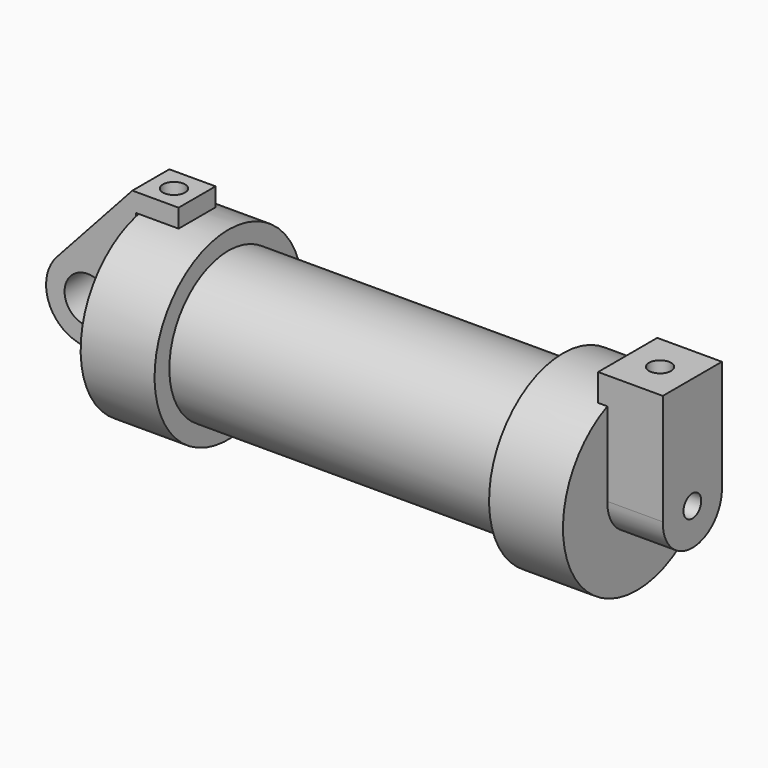
from build123d import *

# Parameters (mm, degrees)
F0_W          = 5.842
F0_H          = 12.7
F0_R          = 3.175
F2_DEPTH      = 3.175
F3_R          = 1.524
F4_DEPTH      = 7.62
F4_DEPTH_BACK = 1.27
F5_DEPTH      = 56.134
F7_D          = 3.048
F7_DEPTH      = 10.414
F7_TIP        = 0.9157115834
F9_D          = 3.048
F9_DEPTH      = 17.78
F9_TIP        = 0.9157115834
F9_2_D        = 3.048
F9_2_DEPTH    = 17.78
F9_2_TIP      = 0.9157115834


with BuildPart() as f1:
    # F0 (on Front) → F1 (revolve)
    with BuildSketch(Plane.XZ):
        Polygon((5.842, 12.7), (5.842, 0), (66.294, 0), (66.294, 12.7), (56.134, 12.7), (56.134, 10.16), (10.16, 10.16), (10.16, 12.7), align=None)
        with Locations((2.921, 6.35)):
            Rectangle(F0_W, F0_H)
    revolve(axis=Axis((33.147, 0, 0), (-1, 0, 0)))

    # F3 (on face) → F4 (join, two sides)
    with BuildSketch(Plane.YZ.offset(66.294)) as f4_sk:
        with BuildLine():
            ThreePointArc((-5.0781774391, 0.1360657812), (-0.0680389935, -5.0795443393), (5.08, 0))
            ThreePointArc((5.08, 0), (5.0795115412, 0.0704450318), (5.0780462589, 0.1408765166))
            ThreePointArc((5.0780462589, 0.1408765166), (-0.0024062618, 5.0799994301), (-5.0781774391, 0.1360657812))
        make_face()
        Circle(F3_R, mode=Mode.SUBTRACT)
        with BuildLine():
            ThreePointArc((-5.0781774391, 0.1360657812), (-0.0024062618, 5.0799994301), (5.0780462589, 0.1408765166))
            Line((5.0780462589, 0.1408765166), (5.0780462589, 11.6405947525))
            ThreePointArc((5.0780462589, 11.6405947525), (-7.15596e-05, 12.6999999998), (-5.0781774391, 11.6405375261))
            Line((-5.0781774391, 11.6405375261), (-5.0781774391, 0.1360657812))
        make_face()
        with BuildLine():
            ThreePointArc((-5.0781774391, 11.6405375261), (-7.15596e-05, 12.6999999998), (5.0780462589, 11.6405947525))
            Line((5.0780462589, 11.6405947525), (5.0780462589, 15.3808765166))
            Line((5.0780462589, 15.3808765166), (-5.0781774391, 15.3760657812))
            Line((-5.0781774391, 15.3760657812), (-5.0781774391, 11.6405375261))
        make_face()
    extrude(amount=F4_DEPTH)
    extrude(f4_sk.sketch, amount=-F4_DEPTH_BACK)

    # F5 (cut, through all): a face of the model
    f5_faces = [f1.faces().sort_by_distance(p)[0] for p in [
        (66.294, 0, 0),
    ]]
    extrude(f5_faces, amount=-F5_DEPTH, mode=Mode.SUBTRACT)

    # F7
    with Locations(Plane(origin=(0, -0.0072843748, 15.3784677295), x_dir=(1, 0, 0), z_dir=(0, -0.0004736736, 0.9999998878))):
        with Locations((69.469, 0.0072187854)):
            Hole(F7_D / 2, depth=F7_DEPTH)
            with Locations((0, 0, -(F7_DEPTH + F7_TIP / 2))):  # 118° drill point
                Cone(0, F7_D / 2, F7_TIP, mode=Mode.SUBTRACT)

    # F9
    with Locations(Plane.XY.offset(15.24)):
        with Locations((2.667, 0)):
            Hole(F9_D / 2, depth=F9_DEPTH)
            with Locations((0, 0, -(F9_DEPTH + F9_TIP / 2))):  # 118° drill point
                Cone(0, F9_D / 2, F9_TIP, mode=Mode.SUBTRACT)


with BuildPart() as f2:
    # F0 (on Front) → F2 (new body, symmetric)
    with BuildSketch(Plane.XZ):
        with BuildLine():
            Line((5.842, 0), (0, 0))
            Line((0, 0), (-0.9398, 0))
            ThreePointArc((-0.9398, 0), (-3.1957909266, -4.5493385486), (-8.1826630726, -5.5069827884))
            Line((-8.1826630726, -5.5069827884), (5.842, -9.398))
            Line((5.842, -9.398), (5.842, 0))
        make_face()
        with BuildLine():
            Line((-0.9398, 0), (0, 0))
            Line((0, 0), (0, 12.7))
            Line((0, 12.7), (5.842, 12.7))
            Line((5.842, 12.7), (5.842, 15.24))
            Line((5.842, 15.24), (-0.508, 15.24))
            Line((-0.508, 15.24), (-10.8806298187, 3.8475430269))
            ThreePointArc((-10.8806298187, 3.8475430269), (-4.5919612295, 5.3297205562), (-0.9398, 0))
        make_face()
        with BuildLine():
            ThreePointArc((-8.1826630726, -5.5069827884), (-3.1957909266, -4.5493385486), (-0.9398, 0))
            ThreePointArc((-0.9398, 0), (-4.5919612295, 5.3297205562), (-10.8806298187, 3.8475430269))
            ThreePointArc((-10.8806298187, 3.8475430269), (-12.1459778134, -1.5837270034), (-8.1826630726, -5.5069827884))
        make_face()
        with Locations((-6.6548, 0)):
            Circle(F0_R, mode=Mode.SUBTRACT)
    extrude(amount=F2_DEPTH, both=True)

    # F9#2
    with Locations(Plane.XY.offset(15.24)):
        with Locations((2.667, 0)):
            Hole(F9_2_D / 2, depth=F9_2_DEPTH)
            with Locations((0, 0, -(F9_2_DEPTH + F9_2_TIP / 2))):  # 118° drill point
                Cone(0, F9_2_D / 2, F9_2_TIP, mode=Mode.SUBTRACT)


solid = Compound([f1.part, f2.part])
